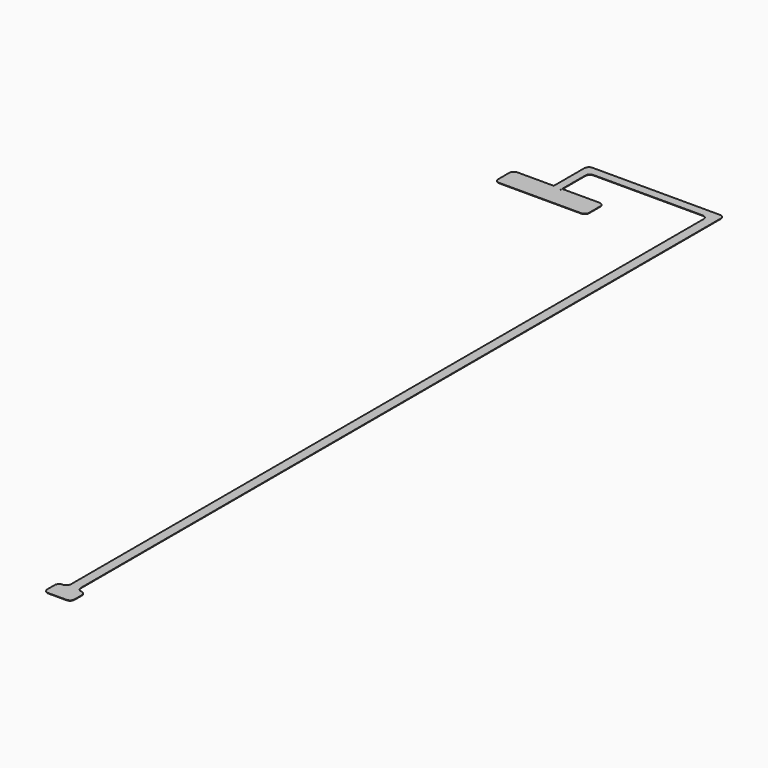
from build123d import *

# Parameters (mm, degrees)
F1_DEPTH = 0.127


with BuildPart() as f1:
    # F0 (on Top) → F1 (new body)
    with BuildSketch(Plane.XY):
        with BuildLine():
            ThreePointArc((0, 1.27), (0.371974, 0.371974), (1.27, 0))
            Line((1.27, 0), (24.13, 0))
            ThreePointArc((24.13, 0), (25.028026, 0.371974), (25.4, 1.27))
            Line((25.4, 1.27), (25.4, 5.08))
            ThreePointArc((25.4, 5.08), (25.028026, 5.978026), (24.13, 6.35))
            Line((24.13, 6.35), (13.782592, 6.35))
            Line((13.782592, 6.35), (13.782592, 5.588))
            Line((13.782592, 5.588), (13.757192, 5.588))
            Line((13.757192, 5.588), (13.757192, 14.478))
            ThreePointArc((13.757192, 14.478), (14.129166, 15.376026), (15.027192, 15.748))
            Line((15.027192, 15.748), (45.507192, 15.748))
            ThreePointArc((45.507192, 15.748), (46.405217, 15.376026), (46.777192, 14.478))
            Line((46.777192, 14.478), (46.777192, -206.502296))
            ThreePointArc((46.777192, -206.502296), (46.405217, -207.400321), (45.507192, -207.772296))
            ThreePointArc((45.507192, -207.772296), (44.609166, -208.14427), (44.237192, -209.042296))
            Line((44.237192, -209.042296), (44.237192, -211.582296))
            ThreePointArc((44.237192, -211.582296), (44.618909, -212.48996), (45.534599, -212.852))
            Line((45.534599, -212.852), (50.614599, -212.852))
            ThreePointArc((50.614599, -212.852), (51.494855, -212.470579), (51.857192, -211.582296))
            Line((51.857192, -211.582296), (51.857192, -209.042296))
            Line((51.857192, -209.042296), (51.857192, -209.03294))
            ThreePointArc((51.857192, -209.03294), (51.520911, -208.172087), (50.690155, -207.767121))
            Line((50.690155, -207.767121), (50.678366, -207.766162))
            ThreePointArc((50.678366, -207.766162), (49.859953, -207.355939), (49.53, -206.502))
            Line((49.53, -206.502), (49.53, 17.018))
            ThreePointArc((49.53, 17.018), (49.158026, 17.916026), (48.26, 18.288))
            Line((48.26, 18.288), (12.7, 18.288))
            ThreePointArc((12.7, 18.288), (11.801974, 17.916026), (11.43, 17.018))
            Line((11.43, 17.018), (11.43, 5.588))
            Line((11.43, 5.588), (11.4046, 5.588))
            Line((11.4046, 5.588), (11.4046, 6.35))
            Line((11.4046, 6.35), (1.27, 6.35))
            ThreePointArc((1.27, 6.35), (0.371974, 5.978026), (0, 5.08))
            Line((0, 5.08), (0, 1.27))
        make_face()
    extrude(amount=F1_DEPTH)


solid = f1.part
